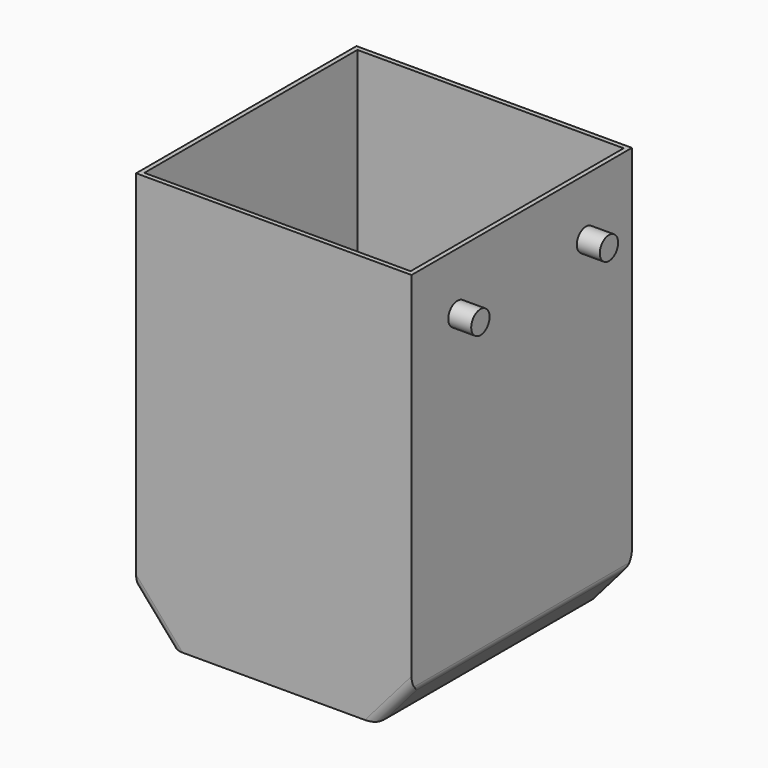
from build123d import *

# Parameters (mm, degrees)
F0_W          = 114.3
F0_H          = 21.9340088606
F1_DEPTH      = 76.2
F1_DEPTH_BACK = 76.2
F2_T          = -2.54
F3_R          = 5.08
F4_R          = 6.35
F5_DEPTH      = 12.7
F6_R          = 6.35
F7_DEPTH      = 12.7


with BuildPart() as f1:
    # F0 (on Front) → F1 (new body, two sides)
    with BuildSketch(Plane.XZ) as f1_sk:
        Polygon((-57.15, -101.6), (-76.2, -101.6), (-57.15, -123.5340088606), align=None)
        Polygon((76.2, -101.6), (57.15, -101.6), (57.15, -123.5340088606), align=None)
        Polygon((-76.2, 101.6), (-76.2, -101.6), (-57.15, -101.6), (-57.15, -79.6659911394), (57.15, -79.6659911394), (57.15, -101.6), (76.2, -101.6), (76.2, 101.6), align=None)
        with Locations((0, -90.6329955697)):
            Rectangle(F0_W, F0_H)
        with Locations((0, -112.5670044303)):
            Rectangle(F0_W, F0_H)
        Polygon((-76.2, 101.6), (-76.2, -101.6), (-57.15, -101.6), (-57.15, -79.6659911394), (57.15, -79.6659911394), (57.15, -101.6), (76.2, -101.6), (76.2, 101.6), align=None)
        Polygon((-57.15, -101.6), (-76.2, -101.6), (-57.15, -123.5340088606), align=None)
        with Locations((0, -112.5670044303)):
            Rectangle(F0_W, F0_H)
        Polygon((76.2, -101.6), (57.15, -101.6), (57.15, -123.5340088606), align=None)
    extrude(amount=-F1_DEPTH)
    extrude(f1_sk.sketch, amount=F1_DEPTH_BACK)

    # F2
    f2_openings = [f1.faces().sort_by_distance(p)[0] for p in [
        (0, 0, 101.6),
    ]]
    offset(amount=F2_T, openings=f2_openings)

    # F3
    f3_edges = [f1.edges().sort_by_distance(p)[0] for p in [
        (-66.675, 76.2, -112.567004),
        (-57.15, 0, -123.534009),
        (-66.675, -76.2, -112.567004),
        (-76.2, 0, -101.6),
        (57.15, 0, -123.534009),
        (66.675, 76.2, -112.567004),
        (76.2, 0, -101.6),
        (66.675, -76.2, -112.567004),
    ]]
    fillet(f3_edges, radius=F3_R)

    # F4 (on face) → F5 (join)
    with BuildSketch(Plane(origin=(-76.2, 0, 0), x_dir=(0, -1, 0), z_dir=(-1, 0, 0))):
        with Locations((-44.45, 69.85)):
            Circle(F4_R)
        with Locations((44.45, 69.85)):
            Circle(F4_R)
        with Locations((-44.45, 69.85)):
            Circle(F4_R)
        with Locations((44.45, 69.85)):
            Circle(F4_R)
    extrude(amount=F5_DEPTH)

    # F6 (on face) → F7 (join)
    with BuildSketch(Plane.YZ.offset(76.2)):
        with Locations((-44.45, 69.85)):
            Circle(F6_R)
        with Locations((44.45, 69.85)):
            Circle(F6_R)
        with Locations((44.45, 69.85)):
            Circle(F6_R)
        with Locations((-44.45, 69.85)):
            Circle(F6_R)
    extrude(amount=F7_DEPTH)


solid = f1.part
